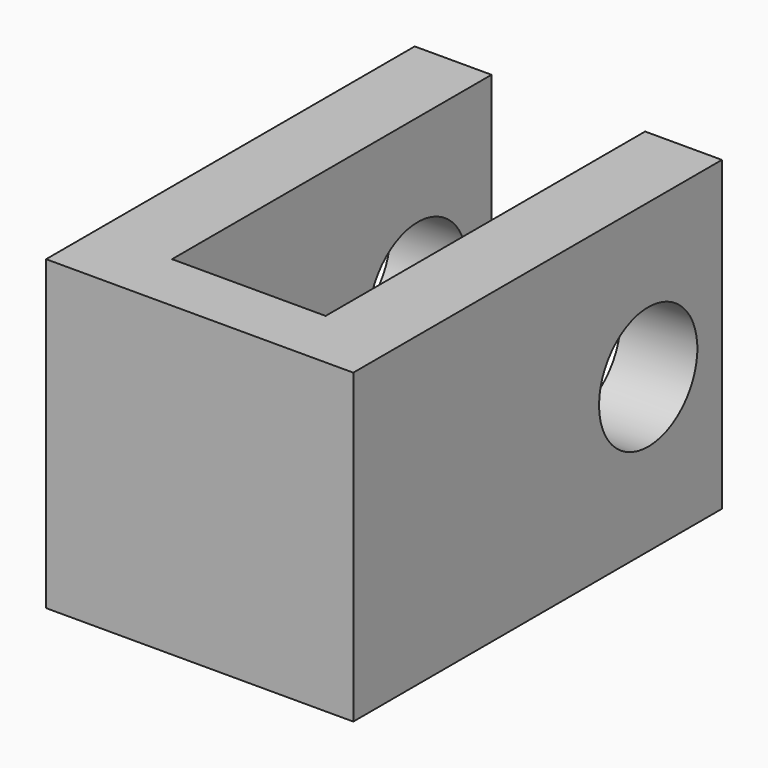
from build123d import *

# Parameters (mm, degrees)
F1_DEPTH = 25.4
F2_R     = 5.08
F3_DEPTH = 25.4


with BuildPart() as f1:
    # F0 (on Top) → F1 (new body)
    with BuildSketch(Plane.XY):
        Polygon((-19.05, 38.1), (-25.4, 38.1), (-25.4, 0), (0, 0), (0, 38.1), (-6.35, 38.1), (-6.35, 5.08), (-19.05, 5.08), align=None)
    extrude(amount=F1_DEPTH)

    # F2 (on face) → F3 (cut)
    with BuildSketch(Plane(origin=(-25.4, 0, 0), x_dir=(0, -1, 0), z_dir=(-1, 0, 0))):
        with Locations((-30.48, 12.7)):
            Circle(F2_R)
    extrude(amount=-F3_DEPTH, mode=Mode.SUBTRACT)


solid = f1.part
